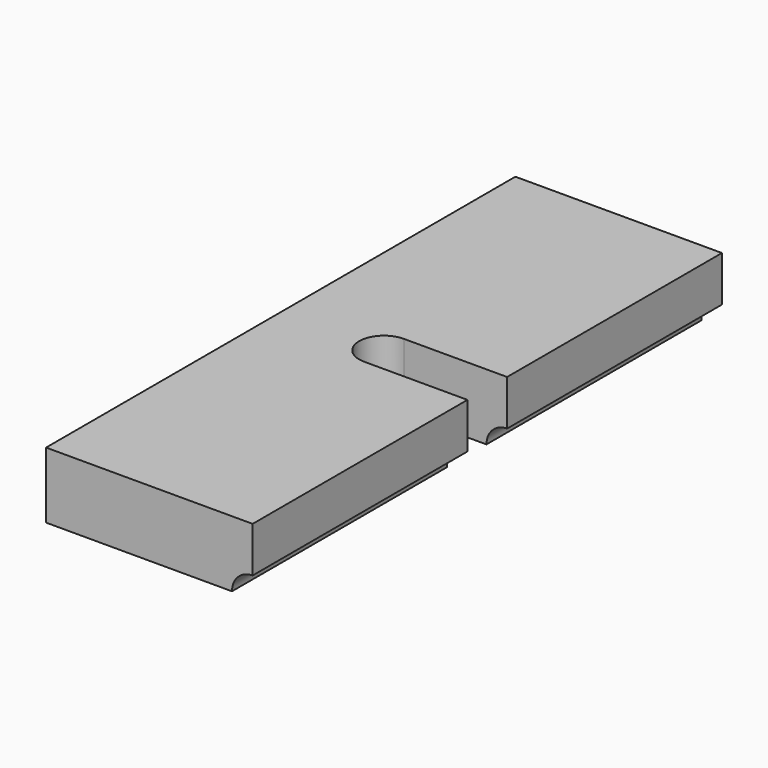
from build123d import *

# Parameters (mm, degrees)
F1_DEPTH = 71
F3_DEPTH = 16
F4_DEPTH = 6
F5_W     = 25.042631
F5_H     = 12
F6_DEPTH = 12.4


with BuildPart() as f1:
    # F0 (on Front) → F1 (new body, symmetric)
    with BuildSketch(Plane.XZ):
        with BuildLine():
            Line((25, -3), (25, 8))
            Line((25, 8), (-25, 8))
            Line((-25, 8), (-25, -8))
            Line((-25, -8), (20, -8))
            ThreePointArc((20, -8), (21.464466, -4.464466), (25, -3))
        make_face()
    extrude(amount=F1_DEPTH, both=True)

    # F2 (on face) → F3 (cut)
    with BuildSketch(Plane.XY.offset(8)):
        with BuildLine():
            ThreePointArc((0, -6), (4.242641, -4.242641), (6, 0))
            ThreePointArc((6, 0), (4.242641, 4.242641), (0, 6))
            ThreePointArc((0, 6), (-6, 0), (0, -6))
        make_face()
    extrude(amount=-F3_DEPTH, mode=Mode.SUBTRACT)

    # F2 (on face) → F4 (cut)
    with BuildSketch(Plane.XY.offset(8)):
        with BuildLine():
            ThreePointArc((0, 6), (4.242641, 4.242641), (6, 0))
            ThreePointArc((6, 0), (4.242641, -4.242641), (0, -6))
            Line((0, -6), (25, -6))
            Line((25, -6), (25, 6))
            Line((25, 6), (0, 6))
        make_face()
    extrude(amount=-F4_DEPTH, mode=Mode.SUBTRACT)

    # F5 (on face) → F6 (cut)
    with BuildSketch(Plane(origin=(0, 0, -8), x_dir=(1, 0, 0), z_dir=(0, 0, -1))):
        with Locations((12.521316, 0)):
            Rectangle(F5_W, F5_H)
    extrude(amount=-F6_DEPTH, mode=Mode.SUBTRACT)


solid = f1.part
